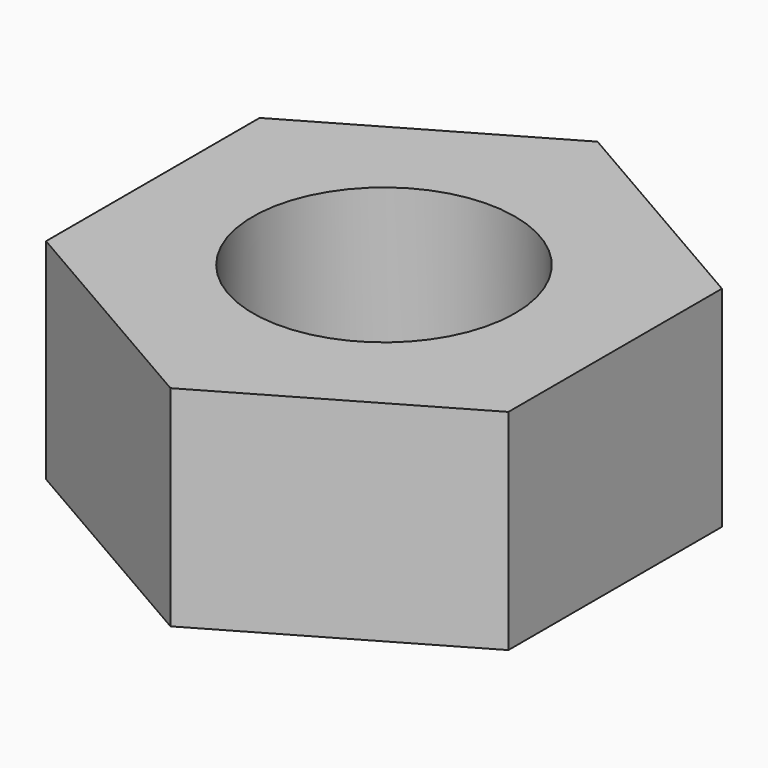
from build123d import *

# Parameters (mm, degrees)
F1_DEPTH = 5.08
F2_R     = 3.175
F3_DEPTH = 5.081


with BuildPart() as f1:
    # F0 (on Top) → F1 (new body)
    with BuildSketch(Plane.XY):
        Polygon((-5.6, 3.233162), (-5.6, -3.233162), (0, -6.466323), (5.6, -3.233162), (5.6, 3.233162), (0, 6.466323), align=None)
    extrude(amount=F1_DEPTH)

    # F2 (on face) → F3 (cut, through all)
    with BuildSketch(Plane.XY.offset(5.08)):
        Circle(F2_R)
    extrude(amount=-F3_DEPTH, mode=Mode.SUBTRACT)


solid = f1.part
